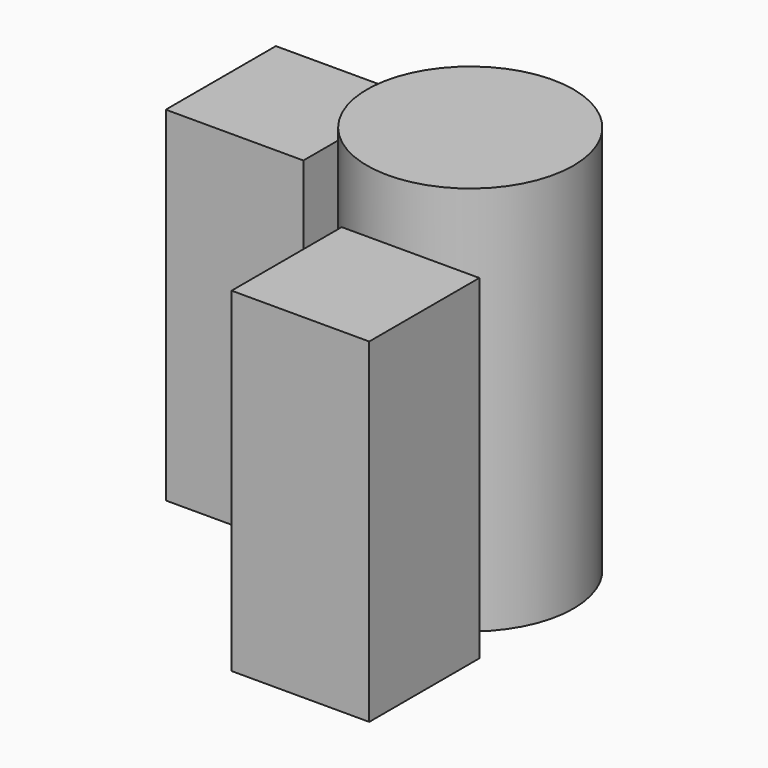
from build123d import *

# Parameters (mm, degrees)
F3_W     = 600
F3_H     = 600
F4_DEPTH = 1500
F1_R     = 450
F5_DEPTH = 1700
F1_W     = 600
F1_H     = 600
F6_DEPTH = 1460


with BuildPart() as f4:
    # F3 (on face) → F4 (new body)
    with BuildSketch(Plane.XY):
        with Locations((1067.079276, -416.121305)):
            Rectangle(F3_W, F3_H)
    extrude(amount=F4_DEPTH)


with BuildPart() as f5:
    # F1 (on Top) → F5 (new body)
    with BuildSketch(Plane.XY):
        with Locations((1898.902834, -471.438546)):
            Circle(F1_R)
    extrude(amount=F5_DEPTH)

    # F1 (on Top) → F6 (join)
    with BuildSketch(Plane.XY):
        with Locations((1898.902834, -471.438546)):
            Circle(F1_R)
        with Locations((2027.818871, -1258.218098)):
            Rectangle(F1_W, F1_H)
    extrude(amount=F6_DEPTH)


solid = Compound([f4.part, f5.part])
